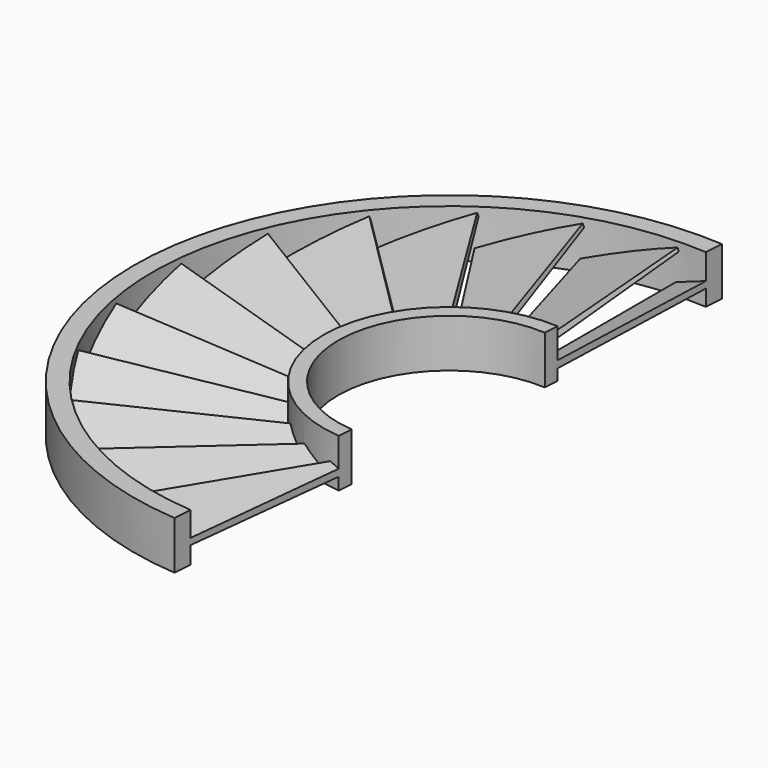
from build123d import *

# Parameters (mm, degrees)
TUBE043_R                 = 85
TUBE043_R_2               = 80
TUBE043_DEPTH             = 13
TUBE042_R                 = 100
TUBE042_R_2               = 80
TUBE042_DEPTH             = 200
PAD041_DEPTH              = 100
PAD042_DEPTH              = 2
COMMON020_PLACEMENT_ANGLE = 20
ARRAY017_COUNT            = 22
ARRAY017_PLACEMENT_ANGLE  = 180
TUBE044_R                 = 34
TUBE044_R_2               = 30
TUBE044_DEPTH             = 13
PAD040_DEPTH              = 100


with BuildPart() as tube043:
    # Tube043 → Tube043 (new body)
    with BuildSketch(Plane.XY.offset(42.5)):
        Circle(TUBE043_R)
        Circle(TUBE043_R_2, mode=Mode.SUBTRACT)
    extrude(amount=TUBE043_DEPTH)


with BuildPart() as tube042:
    # Tube042 → Tube042 (new body)
    with BuildSketch(Plane.XY):
        Circle(TUBE042_R)
        Circle(TUBE042_R_2, mode=Mode.SUBTRACT)
    extrude(amount=TUBE042_DEPTH)


with BuildPart() as body042:
    # Sketch041 → Pad041 (new body)
    with BuildSketch(Plane.XZ):
        Polygon((0, 0), (0, 2), (26, 0.9), (26, 0), align=None)
    extrude(amount=PAD041_DEPTH)


with BuildPart() as body042_1:
    # Body042 placement: moved
    add(body042.part.moved(Location((-5, 0, 5))))


with BuildPart() as cut014:
    # Sketch042 → Pad042 (new body)
    with BuildSketch(Plane.XY):
        Polygon((0, 0), (0, -52), (25.94305, -47.924315), (8.5, 0), align=None)
    extrude(amount=PAD042_DEPTH)


with BuildPart() as cut014_1:
    # Body043 placement: moved
    add(cut014.part.moved(Location((-5, -33, 5))))

    # Common020: intersect Body042
    add(body042_1.part, mode=Mode.INTERSECT)


with BuildPart() as cut014_2:
    # Common020 placement: moved
    add(cut014_1.part.rotate(Axis((0, 0, 0), (0, 1, 0)), COMMON020_PLACEMENT_ANGLE))

    # Array017: Cut014 ×22 about axis
    array017_axis = Axis((0, 0, 0), (0, 0, 1))


with BuildPart() as cut014_3:
    add(cut014_2.part)
    for i in range(1, ARRAY017_COUNT):
        add(cut014_2.part.rotate(array017_axis, i * 360 / ARRAY017_COUNT))


with BuildPart() as cut014_4:
    # Array017 placement: moved
    add(cut014_3.part.moved(Location((0, 0, 52))).rotate(Axis((0, 0, 52), (0, 1, 0)), ARRAY017_PLACEMENT_ANGLE))

    # Cut014: cut Tube042
    add(tube042.part, mode=Mode.SUBTRACT)


with BuildPart() as pre3stat001:
    # Tube044 → Tube044 (new body)
    with BuildSketch(Plane.XY.offset(42.5)):
        Circle(TUBE044_R)
        Circle(TUBE044_R_2, mode=Mode.SUBTRACT)
    extrude(amount=TUBE044_DEPTH)

    # Fusion019: union Tube043, Cut014
    add(tube043.part)
    add(cut014_4.part)


with BuildPart() as stator3h1:
    # Sketch040 → Pad040 (new body)
    with BuildSketch(Plane.XY):
        Polygon((-6.733461, -90.278511), (6.859371, 102.08947), (-116.658012, 102.08947), (-116.658012, -85.846069), align=None)
    extrude(amount=PAD040_DEPTH)

    # Common021: intersect Pre3Stat001
    add(pre3stat001.part, mode=Mode.INTERSECT)


solid = stator3h1.part
